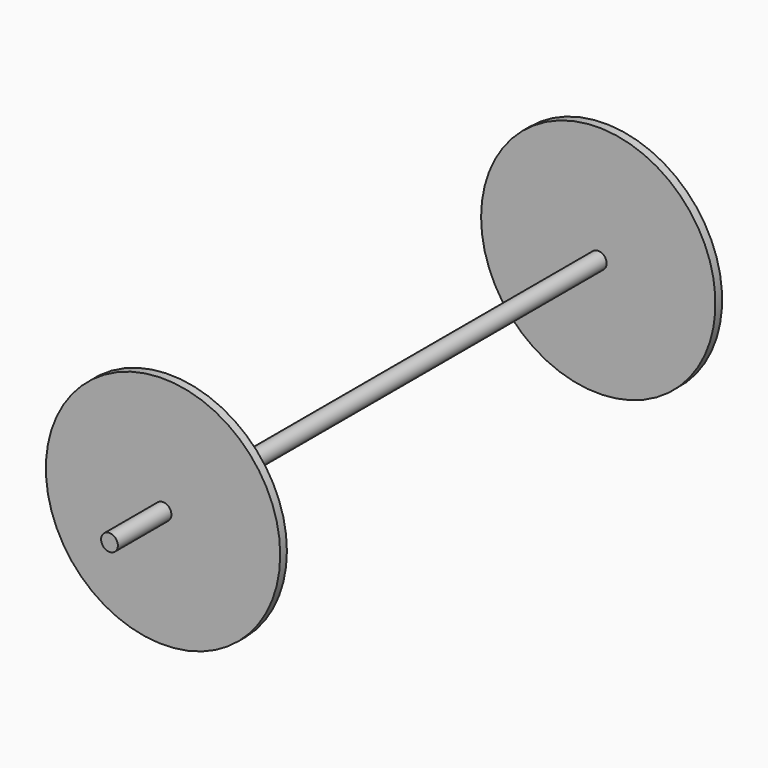
from build123d import *

# Parameters (mm, degrees)
F0_R     = 3.175
F1_DEPTH = 203.2
F2_R     = 44.45
F3_DEPTH = 3.175
F4_R     = 44.45
F5_DEPTH = 3.175
F6_R     = 3.175
F7_DEPTH = 25.4
F8_R     = 3.175
F9_DEPTH = 19.05


with BuildPart() as f1:
    # F0 (on Front) → F1 (new body)
    with BuildSketch(Plane.XZ):
        Circle(F0_R)
    extrude(amount=F1_DEPTH)

    # F2 (on face) → F3 (join)
    with BuildSketch(Plane.XZ.offset(203.2)):
        Circle(F2_R)
    extrude(amount=F3_DEPTH)

    # F4 (on face) → F5 (join)
    with BuildSketch(Plane(origin=(0, 0, 0), x_dir=(-1, 0, 0), z_dir=(0, 1, 0))):
        Circle(F4_R)
    extrude(amount=F5_DEPTH)

    # F6 (on face) → F7 (join)
    with BuildSketch(Plane.XZ.offset(206.375)):
        Circle(F6_R)
    extrude(amount=F7_DEPTH)

    # F8 (on face) → F9 (join)
    with BuildSketch(Plane(origin=(0, 3.175, 0), x_dir=(-1, 0, 0), z_dir=(0, 1, 0))):
        Circle(F8_R)
    extrude(amount=F9_DEPTH)


solid = f1.part
